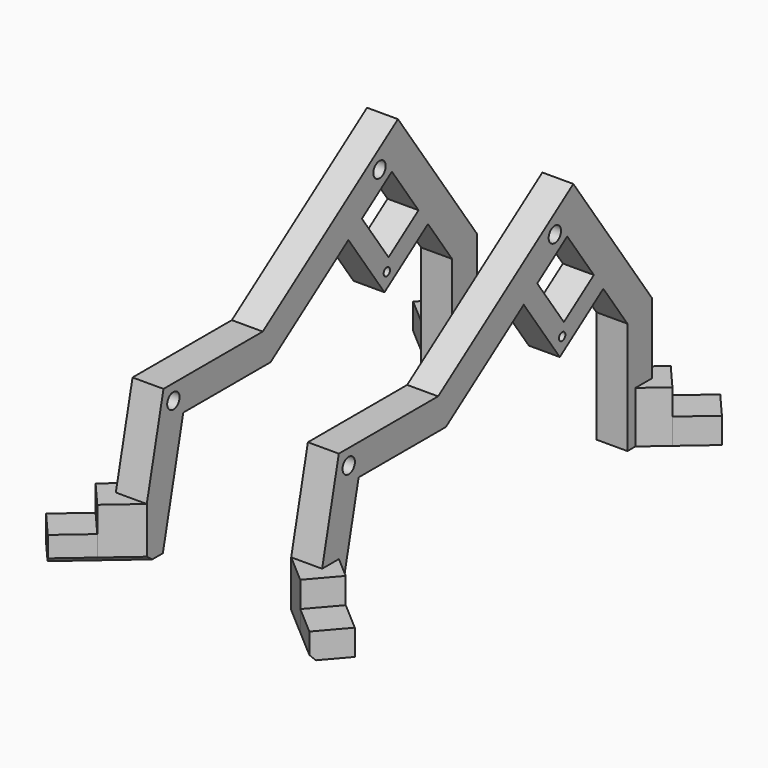
from build123d import *

# Parameters (mm, degrees)
F1_DEPTH   = 70
F2_DEPTH   = 10
F3_DEPTH   = 5
F5_DEPTH   = 25
F6_DEPTH   = 5
F8_R       = 0.7661349595
F9_DEPTH   = 6
F7_R       = 1.5
F10_DEPTH  = 7
F13_DEPTH  = 6
F14_R      = 1.5
F15_DEPTH  = 12
F16_SIZE   = 1
F16_2_SIZE = 1


with BuildPart() as f1:
    # F0 (on Top) → F1 (new body)
    with BuildSketch(Plane.XY):
        with BuildLine():
            Line((17.481584177, 40), (14, 40))
            Line((14, 40), (18.5698965916, 34.6975434805))
            Line((18.5698965916, 34.6975434805), (20, 35.9300712093))
            Line((20, 35.9300712093), (20, 38.5762325992))
            ThreePointArc((20, 38.5762325992), (18.1979669018, 38.327945742), (17.481584177, 40))
        make_face()
        with BuildLine():
            Line((20, 40), (17.481584177, 40))
            ThreePointArc((17.481584177, 40), (18.1979669018, 38.327945742), (20, 38.5762325992))
            Line((20, 38.5762325992), (20, 40))
        make_face()
        Polygon((18.5698965916, 34.6975434805), (14, 40), (14, 0), (14, -40), (18.5698965916, -34.6975434805), (20, -35.9300712093), (20, 0), (20, 35.9300712093), align=None)
        with BuildLine():
            Line((18.5698965916, -34.6975434805), (14, -40))
            Line((14, -40), (17.481584177, -40))
            ThreePointArc((17.481584177, -40), (18.1979669018, -38.327945742), (20, -38.5762325992))
            Line((20, -38.5762325992), (20, -35.9300712093))
            Line((20, -35.9300712093), (18.5698965916, -34.6975434805))
        make_face()
        with BuildLine():
            ThreePointArc((20, -38.5762325992), (18.1979669018, -38.327945742), (17.481584177, -40))
            Line((17.481584177, -40), (20, -40))
            Line((20, -40), (20, -38.5762325992))
        make_face()
    extrude(amount=F1_DEPTH)

    # F0 (on Top) → F2 (join)
    with BuildSketch(Plane.XY):
        with BuildLine():
            ThreePointArc((20.4361765556, 39.633720036), (19.1207184642, 41.1223248473), (17.481584177, 40))
            Line((17.481584177, 40), (20, 40))
            Line((20, 40), (20, 38.5762325992))
            ThreePointArc((20, 38.5762325992), (20.3228515656, 39.0617651281), (20.4361765556, 39.633720036))
        make_face()
        with BuildLine():
            Line((19.6812034138, 44.8963177768), (14, 40))
            Line((14, 40), (17.481584177, 40))
            ThreePointArc((17.481584177, 40), (19.1207184642, 41.1223248473), (20.4361765556, 39.633720036))
            ThreePointArc((20.4361765556, 39.633720036), (20.3228515656, 39.0617651281), (20, 38.5762325992))
            Line((20, 38.5762325992), (20, 35.9300712093))
            Line((20, 35.9300712093), (24.2511000054, 39.5938612572))
            Line((24.2511000054, 39.5938612572), (19.6812034138, 44.8963177768))
        make_face()
        with BuildLine():
            Line((17.481584177, -40), (14, -40))
            Line((14, -40), (19.6812034138, -44.8963177768))
            Line((19.6812034138, -44.8963177768), (24.2511000054, -39.5938612572))
            Line((24.2511000054, -39.5938612572), (20, -35.9300712093))
            Line((20, -35.9300712093), (20, -38.5762325992))
            ThreePointArc((20, -38.5762325992), (20.3228515656, -39.0617651281), (20.4361765556, -39.633720036))
            ThreePointArc((20.4361765556, -39.633720036), (19.1207184642, -41.1223248473), (17.481584177, -40))
        make_face()
        with BuildLine():
            Line((20, -40), (17.481584177, -40))
            ThreePointArc((17.481584177, -40), (19.1207184642, -41.1223248473), (20.4361765556, -39.633720036))
            ThreePointArc((20.4361765556, -39.633720036), (20.3228515656, -39.0617651281), (20, -38.5762325992))
            Line((20, -38.5762325992), (20, -40))
        make_face()
    extrude(amount=F2_DEPTH)

    # F0 (on Top) → F3 (join)
    with BuildSketch(Plane.XY):
        Polygon((25.3624068276, 49.7926355535), (19.6812034138, 44.8963177768), (24.2511000054, 39.5938612572), (29.9323034192, 44.490179034), align=None)
        Polygon((24.2511000054, -39.5938612572), (19.6812034138, -44.8963177768), (25.3624068276, -49.7926355535), (29.9323034192, -44.490179034), align=None)
    extrude(amount=F3_DEPTH)

    # F4 (on face) → F5 (cut)
    with BuildSketch(Plane(origin=(14, 0, 0), x_dir=(0, -1, 0), z_dir=(-1, 0, 0))):
        Polygon((-34, 0), (36.0994255375, 0), (31.1508810268, 22), (9.992649815, 22), (-19.4081855757, 42.5866865702), (-34, 21.7474158853), align=None)
        Polygon((-20.8816392233, 50.943057454), (11.8844425483, 28), (35.9511908549, 28), (40, 10), (40, 70), (-40, 70), (-40, 23.6392086186), align=None)
    extrude(amount=-F5_DEPTH, mode=Mode.SUBTRACT)

    # F0 (on Top) → F6 (cut)
    with BuildSketch(Plane.XY):
        with BuildLine():
            Line((20, -40), (17.481584177, -40))
            ThreePointArc((17.481584177, -40), (19.1207184642, -41.1223248473), (20.4361765556, -39.633720036))
            ThreePointArc((20.4361765556, -39.633720036), (20.3228515656, -39.0617651281), (20, -38.5762325992))
            Line((20, -38.5762325992), (20, -40))
        make_face()
        with BuildLine():
            ThreePointArc((20, -38.5762325992), (18.1979669018, -38.327945742), (17.481584177, -40))
            Line((17.481584177, -40), (20, -40))
            Line((20, -40), (20, -38.5762325992))
        make_face()
        with BuildLine():
            ThreePointArc((20.4361765556, 39.633720036), (19.1207184642, 41.1223248473), (17.481584177, 40))
            Line((17.481584177, 40), (20, 40))
            Line((20, 40), (20, 38.5762325992))
            ThreePointArc((20, 38.5762325992), (20.3228515656, 39.0617651281), (20.4361765556, 39.633720036))
        make_face()
        with BuildLine():
            Line((20, 40), (17.481584177, 40))
            ThreePointArc((17.481584177, 40), (18.1979669018, 38.327945742), (20, 38.5762325992))
            Line((20, 38.5762325992), (20, 40))
        make_face()
    extrude(amount=F6_DEPTH, mode=Mode.SUBTRACT)

    # F7 (on face) → F10 (cut)
    with BuildSketch(Plane(origin=(14, 0, 0), x_dir=(0, -1, 0), z_dir=(-1, 0, 0))):
        with Locations((-16.4106077752, 44.1500837642)):
            Circle(F7_R)
    extrude(amount=-F10_DEPTH, mode=Mode.SUBTRACT)


with BuildPart() as f9:
    # F8 (on face) → F9 (new body)
    with BuildSketch(Plane.YZ.offset(20)):
        Polygon((12.143454066, 37.499866804), (8.8668458888, 35.2055610586), (17.6148869053, 22.7120637181), (28.1562265921, 30.0931892296), (25.8619208467, 33.3697974068), (18.597189337, 28.2829776406), align=None)
        with Locations((18.1923007229, 25.9867402042)):
            Circle(F8_R, mode=Mode.SUBTRACT)
    extrude(amount=-F9_DEPTH)

    # F11: union F1
    add(f1.part)


with BuildPart() as f12_1:
    # F12: instance of F9
    add(f9.part.mirror(Plane.YZ))

    # F14 (on face) → F15 (cut)
    with BuildSketch(Plane.YZ.offset(-14)):
        with Locations((-33.5510359408, 25)):
            Circle(F14_R)
    extrude(amount=-F15_DEPTH, mode=Mode.SUBTRACT)

    # F16
    f16_edges = [f12_1.edges().sort_by_distance(p)[0] for p in [
        (-19.681203, -44.896318, 0),
        (-19.681203, 44.896318, 0),
    ]]
    chamfer(f16_edges, length=F16_SIZE)


with BuildPart() as f9_1:
    add(f9.part)

    # F7 (on face) → F13 (cut, symmetric)
    with BuildSketch(Plane(origin=(14, 0, 0), x_dir=(0, -1, 0), z_dir=(-1, 0, 0))):
        with Locations((33.5510359408, 25)):
            Circle(F7_R)
    extrude(amount=F13_DEPTH, both=True, mode=Mode.SUBTRACT)

    # F16#2
    f16_2_edges = [f9_1.edges().sort_by_distance(p)[0] for p in [
        (19.681203, -44.896318, 0),
        (19.681203, 44.896318, 0),
    ]]
    chamfer(f16_2_edges, length=F16_2_SIZE)


solid = Compound([f12_1.part, f9_1.part])
